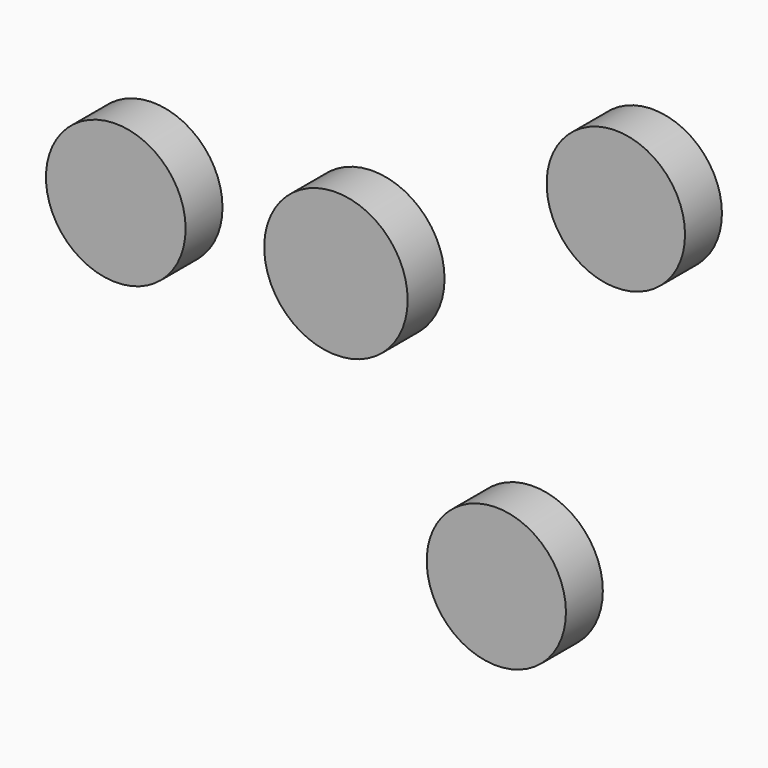
from build123d import *

# Parameters (mm, degrees)
F0_R     = 9.52746
F0_R_2   = 9.58634
F0_R_3   = 9.615639
F0_R_4   = 9.875444
F1_DEPTH = 6.35


with BuildPart() as f1:
    # F0 (on Front) → F1 (new body)
    with BuildSketch(Plane.XZ):
        with Locations((38.542941, 51.101878)):
            Circle(F0_R)
        with Locations((22.086397, 0)):
            Circle(F0_R_2)
        with Locations((-30.314676, 29.448539)):
            Circle(F0_R_3)
        with Locations((0, 30.747727)):
            Circle(F0_R_4)
    extrude(amount=F1_DEPTH)


solid = f1.part
